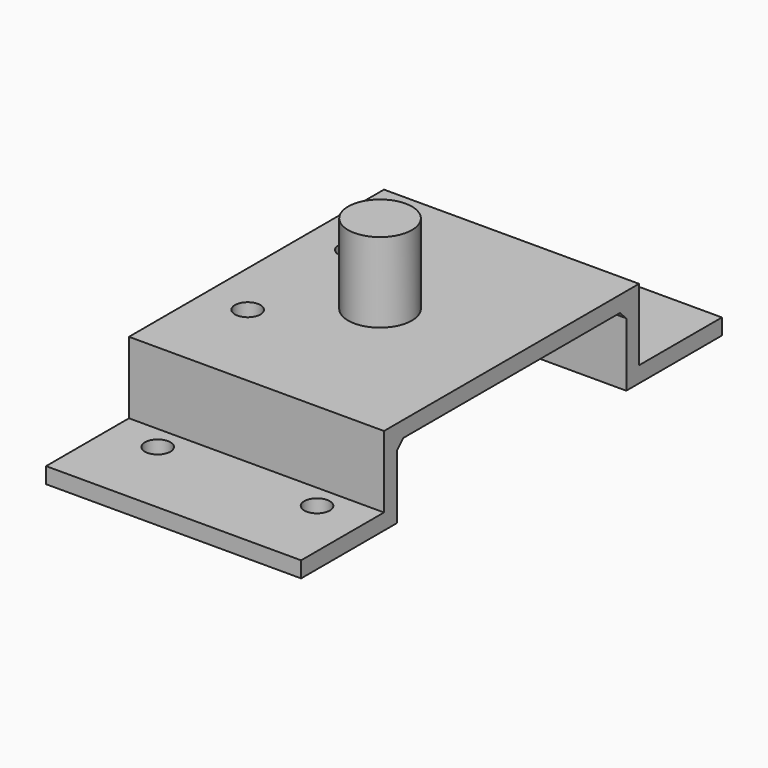
from build123d import *

# Parameters (mm, degrees)
CYLINDER155_R     = 1.6
CYLINDER155_DEPTH = 3
CYLINDER156_R     = 1.6
CYLINDER156_DEPTH = 3
CYLINDER157_R     = 1.6
CYLINDER157_DEPTH = 3
CYLINDER158_R     = 1.6
CYLINDER158_DEPTH = 3
CYLINDER159_R     = 1.6
CYLINDER159_DEPTH = 3
CYLINDER154_R     = 1.6
CYLINDER154_DEPTH = 3
BOX085_W          = 32
BOX085_H          = 7
BOX085_DEPTH      = 2
BOX082_W          = 32
BOX082_H          = 40
BOX082_DEPTH      = 2
BOX086_W          = 32
BOX086_H          = 7
BOX086_DEPTH      = 2
BOX084_W          = 32
BOX084_H          = 15
BOX084_DEPTH      = 2
CYLINDER153_R     = 4
CYLINDER153_DEPTH = 10
BOX083_W          = 32
BOX083_H          = 15
BOX083_DEPTH      = 2
CHAMFER004_SIZE   = 1


with BuildPart() as cylinder155:
    # Cylinder155 → Cylinder155 (new body)
    with BuildSketch(Plane(origin=(47.5, -22, 7), x_dir=(1, 0, 0), z_dir=(0, 0, 1))):
        Circle(CYLINDER155_R)
    extrude(amount=CYLINDER155_DEPTH)


with BuildPart() as cylinder156:
    # Cylinder156 → Cylinder156 (new body)
    with BuildSketch(Plane(origin=(47.5, -68, 7), x_dir=(1, 0, 0), z_dir=(0, 0, 1))):
        Circle(CYLINDER156_R)
    extrude(amount=CYLINDER156_DEPTH)


with BuildPart() as cylinder157:
    # Cylinder157 → Cylinder157 (new body)
    with BuildSketch(Plane(origin=(27.5, -68, 7), x_dir=(1, 0, 0), z_dir=(0, 0, 1))):
        Circle(CYLINDER157_R)
    extrude(amount=CYLINDER157_DEPTH)


with BuildPart() as cylinder158:
    # Cylinder158 → Cylinder158 (new body)
    with BuildSketch(Plane(origin=(27, -37, 15), x_dir=(1, 0, 0), z_dir=(0, 0, 1))):
        Circle(CYLINDER158_R)
    extrude(amount=CYLINDER158_DEPTH)


with BuildPart() as cylinder159:
    # Cylinder159 → Cylinder159 (new body)
    with BuildSketch(Plane(origin=(27, -53.25, 15), x_dir=(1, 0, 0), z_dir=(0, 0, 1))):
        Circle(CYLINDER159_R)
    extrude(amount=CYLINDER159_DEPTH)


with BuildPart() as fusion110:
    # Cylinder154 → Cylinder154 (new body)
    with BuildSketch(Plane(origin=(27.5, -22, 7), x_dir=(1, 0, 0), z_dir=(0, 0, 1))):
        Circle(CYLINDER154_R)
    extrude(amount=CYLINDER154_DEPTH)

    # Fusion110: union Cylinder155, Cylinder156, Cylinder157, Cylinder158, Cylinder159
    add(cylinder155.part)
    add(cylinder156.part)
    add(cylinder157.part)
    add(cylinder158.part)
    add(cylinder159.part)


with BuildPart() as fusion110_1:
    # Fusion110 placement: moved
    add(fusion110.part.moved(Location((0, 25, 9))))


with BuildPart() as cube085:
    # Box085 → Box085 (new body)
    with BuildSketch(Plane(origin=(21.5, 0, 18), x_dir=(1, 0, 0), z_dir=(0, -1, 0))):
        with Locations((16, 3.5)):
            Rectangle(BOX085_W, BOX085_H)
    extrude(amount=BOX085_DEPTH)


with BuildPart() as cube082:
    # Box082 → Box082 (new body)
    with BuildSketch(Plane(origin=(21.5, -40, 25), x_dir=(1, 0, 0), z_dir=(0, 0, 1))):
        with Locations((16, 20)):
            Rectangle(BOX082_W, BOX082_H)
    extrude(amount=BOX082_DEPTH)


with BuildPart() as cube086:
    # Box086 → Box086 (new body)
    with BuildSketch(Plane(origin=(21.5, -38, 18), x_dir=(1, 0, 0), z_dir=(0, -1, 0))):
        with Locations((16, 3.5)):
            Rectangle(BOX086_W, BOX086_H)
    extrude(amount=BOX086_DEPTH)


with BuildPart() as cube084:
    # Box084 → Box084 (new body)
    with BuildSketch(Plane(origin=(21.5, -53, 16), x_dir=(1, 0, 0), z_dir=(0, 0, 1))):
        with Locations((16, 7.5)):
            Rectangle(BOX084_W, BOX084_H)
    extrude(amount=BOX084_DEPTH)


with BuildPart() as cylinder153:
    # Cylinder153 → Cylinder153 (new body)
    with BuildSketch(Plane(origin=(37, -20, 27), x_dir=(1, 0, 0), z_dir=(0, 0, 1))):
        Circle(CYLINDER153_R)
    extrude(amount=CYLINDER153_DEPTH)


with BuildPart() as chamfer004:
    # Box083 → Box083 (new body)
    with BuildSketch(Plane(origin=(21.5, -2, 16), x_dir=(1, 0, 0), z_dir=(0, 0, 1))):
        with Locations((16, 7.5)):
            Rectangle(BOX083_W, BOX083_H)
    extrude(amount=BOX083_DEPTH)

    # Fusion111: union Cube085, Cube082, Cube086, Cube084, Cylinder153
    add(cube085.part)
    add(cube082.part)
    add(cube086.part)
    add(cube084.part)
    add(cylinder153.part)

    # Cut087: cut Fusion110
    add(fusion110_1.part, mode=Mode.SUBTRACT)

    # Chamfer004
    chamfer004_edges = [chamfer004.edges().sort_by_distance(p)[0] for p in [
        (37.5, -2, 25),
        (37.5, -38, 25),
    ]]
    chamfer(chamfer004_edges, length=CHAMFER004_SIZE)


with BuildPart() as chamfer004_1:
    # Chamfer004 placement: moved
    add(chamfer004.part.moved(Location((256.25, 0, 0))))


solid = chamfer004_1.part
